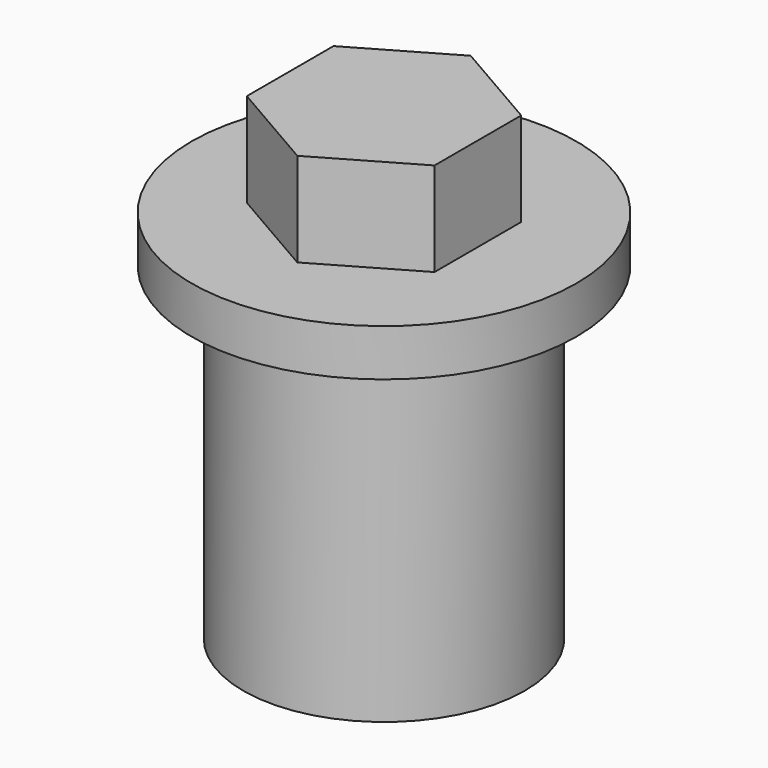
from build123d import *

# Parameters (mm, degrees)
F1_DEPTH = 1
F2_R     = 2.05
F3_DEPTH = 0.5
F4_R     = 1.5
F5_DEPTH = 4


with BuildPart() as f1:
    # F0 (on Top) → F1 (new body)
    with BuildSketch(Plane.XY):
        Polygon((-1, 0.57735), (-1, 0), (1, 0), (1, 0.57735), (0, 1.154701), align=None)
        Polygon((1, 0), (-1, 0), (-1, -0.57735), (0, -1.154701), (1, -0.57735), align=None)
    extrude(amount=F1_DEPTH)

    # F2 (on face) → F3 (join)
    with BuildSketch(Plane(origin=(0, 0, 0), x_dir=(1, 0, 0), z_dir=(0, 0, -1))):
        Circle(F2_R)
    extrude(amount=F3_DEPTH)

    # F4 (on Top) → F5 (join)
    with BuildSketch(Plane.XY):
        Circle(F4_R)
    extrude(amount=-F5_DEPTH)


solid = f1.part
